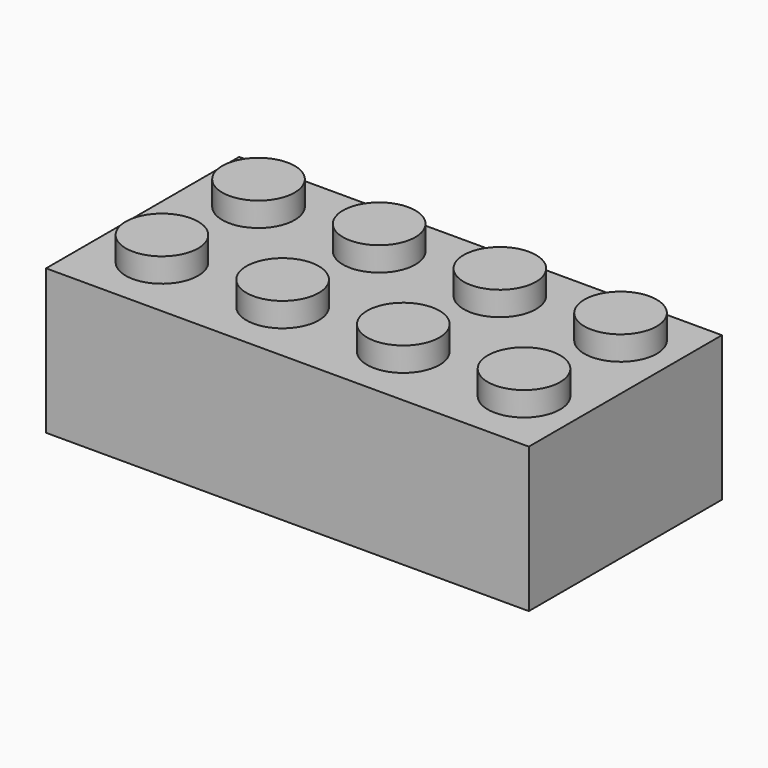
from build123d import *

# Parameters (mm, degrees)
F0_W     = 60
F0_H     = 30
F1_DEPTH = 18
F2_T     = -1
F3_R     = 4.5
F4_DEPTH = 3


with BuildPart() as f1:
    # F0 (on Top) → F1 (new body)
    with BuildSketch(Plane.XY):
        with Locations((30, 15)):
            Rectangle(F0_W, F0_H)
    extrude(amount=F1_DEPTH)

    # F2
    f2_openings = [f1.faces().sort_by_distance(p)[0] for p in [
        (30, 15, 0),
    ]]
    offset(amount=F2_T, openings=f2_openings)

    # F3 (on face) → F4 (join)
    with BuildSketch(Plane.XY.offset(18)):
        with Locations((8, 8)):
            Circle(F3_R)
        with Locations((23, 8)):
            Circle(F3_R)
        with Locations((8, 23)):
            Circle(F3_R)
        with Locations((23, 23)):
            Circle(F3_R)
        with Locations((38, 23)):
            Circle(F3_R)
        with Locations((53, 8)):
            Circle(F3_R)
        with Locations((38, 8)):
            Circle(F3_R)
        with Locations((53, 23)):
            Circle(F3_R)
    extrude(amount=F4_DEPTH)


solid = f1.part
